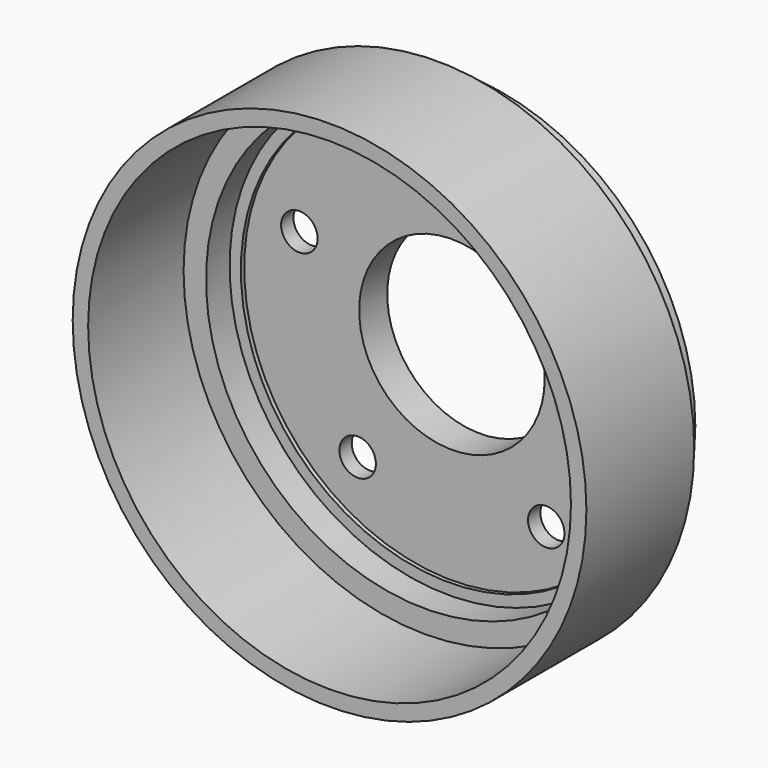
from build123d import *

# Parameters (mm, degrees)
F2_R     = 6.5
F3_DEPTH = 5.5
F4_DEPTH = 77.001


with BuildPart() as f1:
    # F0 (on Top) → F1 (revolve)
    with BuildSketch(Plane.XY):
        Polygon((86, -29), (86, -71.5), (91.5, -71.5), (91.5, -23.5), (83.5, -23.5), (83.5, -13), (79.5, -13), (79.5, -11.5), (36, -11.5), (36, -4.5), (33.05, -4.5), (33.05, 5.5), (0, 5.5), (0, 0), (27.55, 0), (27.55, -10), (30.5, -10), (30.5, -17), (74, -17), (74, -18.5), (78, -18.5), (78, -29), align=None)
    revolve(axis=Axis((0, 2.75, 0), (0, -1, 0)))

    # F2 (on face) → F3 (cut, through all)
    with BuildSketch(Plane(origin=(0, -11.5, 0), x_dir=(-1, 0, 0), z_dir=(0, 1, 0))):
        with Locations((0, 57.15)):
            Circle(F2_R)
        with Locations((-54.3528799063, 17.6603212285)):
            Circle(F2_R)
        with Locations((-33.5919271685, -46.2353212285)):
            Circle(F2_R)
        with Locations((33.5919271685, -46.2353212285)):
            Circle(F2_R)
        with Locations((54.3528799063, 17.6603212285)):
            Circle(F2_R)
    extrude(amount=-F3_DEPTH, mode=Mode.SUBTRACT)

    # F4 (cut, through all): a face of the model
    f4_faces = [f1.faces().sort_by_distance(p)[0] for p in [
        (0, 5.5, 0),
    ]]
    extrude(f4_faces, amount=-F4_DEPTH, mode=Mode.SUBTRACT)


solid = f1.part
